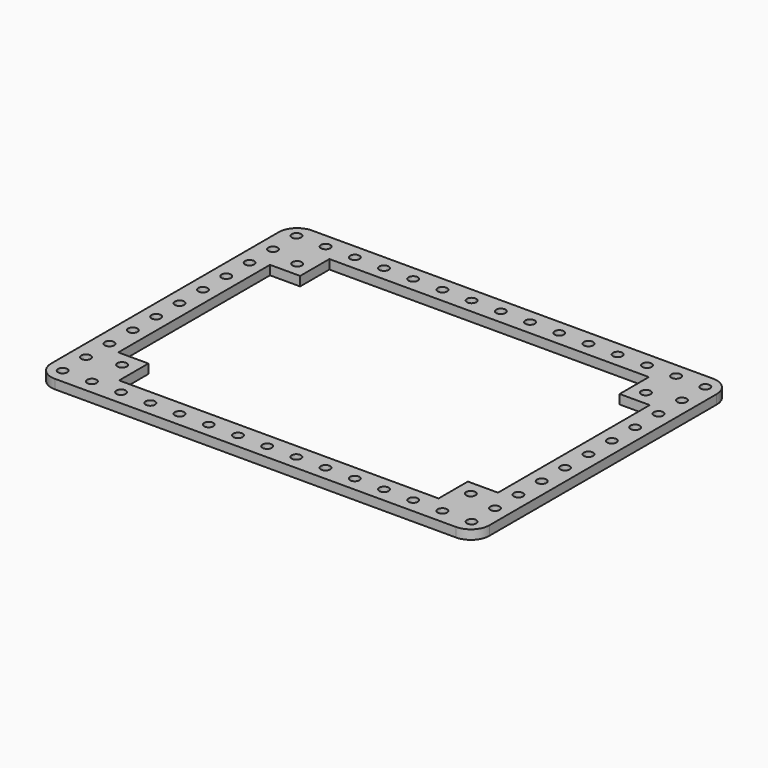
from build123d import *

# Parameters (mm, degrees)
F0_R     = 1.6
F1_DEPTH = 3.175


with BuildPart() as f1:
    # F0 (on Top) → F1 (new body)
    with BuildSketch(Plane.XY):
        with BuildLine():
            ThreePointArc((0, 6.35), (1.859872, 1.859872), (6.35, 0))
            Line((6.35, 0), (143.65, 0))
            ThreePointArc((143.65, 0), (148.140128, 1.859872), (150, 6.35))
            Line((150, 6.35), (150, 103.65))
            ThreePointArc((150, 103.65), (148.140128, 108.140128), (143.65, 110))
            Line((143.65, 110), (6.35, 110))
            ThreePointArc((6.35, 110), (1.859872, 108.140128), (0, 103.65))
            Line((0, 103.65), (0, 6.35))
        make_face()
        with Locations((5, 5)):
            Circle(F0_R, mode=Mode.SUBTRACT)
        with Locations((15, 5)):
            Circle(F0_R, mode=Mode.SUBTRACT)
        with Locations((25, 5)):
            Circle(F0_R, mode=Mode.SUBTRACT)
        with Locations((35, 5)):
            Circle(F0_R, mode=Mode.SUBTRACT)
        with Locations((5, 15)):
            Circle(F0_R, mode=Mode.SUBTRACT)
        with Locations((15.31, 17.535)):
            Circle(F0_R, mode=Mode.SUBTRACT)
        with Locations((5, 25)):
            Circle(F0_R, mode=Mode.SUBTRACT)
        with Locations((45, 5)):
            Circle(F0_R, mode=Mode.SUBTRACT)
        with Locations((55, 5)):
            Circle(F0_R, mode=Mode.SUBTRACT)
        with Locations((65, 5)):
            Circle(F0_R, mode=Mode.SUBTRACT)
        with Locations((5, 35)):
            Circle(F0_R, mode=Mode.SUBTRACT)
        with Locations((5, 45)):
            Circle(F0_R, mode=Mode.SUBTRACT)
        with Locations((75, 5)):
            Circle(F0_R, mode=Mode.SUBTRACT)
        with Locations((85, 5)):
            Circle(F0_R, mode=Mode.SUBTRACT)
        with Locations((95, 5)):
            Circle(F0_R, mode=Mode.SUBTRACT)
        with Locations((105, 5)):
            Circle(F0_R, mode=Mode.SUBTRACT)
        with Locations((115, 5)):
            Circle(F0_R, mode=Mode.SUBTRACT)
        with Locations((125, 5)):
            Circle(F0_R, mode=Mode.SUBTRACT)
        with Locations((135, 5)):
            Circle(F0_R, mode=Mode.SUBTRACT)
        with Locations((145, 5)):
            Circle(F0_R, mode=Mode.SUBTRACT)
        with Locations((134.69, 17.535)):
            Circle(F0_R, mode=Mode.SUBTRACT)
        with Locations((145, 15)):
            Circle(F0_R, mode=Mode.SUBTRACT)
        with Locations((145, 25)):
            Circle(F0_R, mode=Mode.SUBTRACT)
        with Locations((145, 35)):
            Circle(F0_R, mode=Mode.SUBTRACT)
        with Locations((145, 45)):
            Circle(F0_R, mode=Mode.SUBTRACT)
        with Locations((5, 55)):
            Circle(F0_R, mode=Mode.SUBTRACT)
        with Locations((5, 65)):
            Circle(F0_R, mode=Mode.SUBTRACT)
        with Locations((5, 75)):
            Circle(F0_R, mode=Mode.SUBTRACT)
        with Locations((5, 85)):
            Circle(F0_R, mode=Mode.SUBTRACT)
        with Locations((5, 95)):
            Circle(F0_R, mode=Mode.SUBTRACT)
        with Locations((15.31, 92.465)):
            Circle(F0_R, mode=Mode.SUBTRACT)
        with Locations((5, 105)):
            Circle(F0_R, mode=Mode.SUBTRACT)
        with Locations((15, 105)):
            Circle(F0_R, mode=Mode.SUBTRACT)
        with Locations((25, 105)):
            Circle(F0_R, mode=Mode.SUBTRACT)
        with Locations((35, 105)):
            Circle(F0_R, mode=Mode.SUBTRACT)
        with Locations((45, 105)):
            Circle(F0_R, mode=Mode.SUBTRACT)
        with Locations((55, 105)):
            Circle(F0_R, mode=Mode.SUBTRACT)
        with Locations((65, 105)):
            Circle(F0_R, mode=Mode.SUBTRACT)
        Polygon((20.31, 22.535), (10, 22.535), (10, 87.465), (20.31, 87.465), (20.31, 100), (129.69, 100), (129.69, 87.465), (140, 87.465), (140, 22.535), (129.69, 22.535), (129.69, 10), (20.31, 10), align=None, mode=Mode.SUBTRACT)
        with Locations((145, 55)):
            Circle(F0_R, mode=Mode.SUBTRACT)
        with Locations((145, 65)):
            Circle(F0_R, mode=Mode.SUBTRACT)
        with Locations((145, 75)):
            Circle(F0_R, mode=Mode.SUBTRACT)
        with Locations((75, 105)):
            Circle(F0_R, mode=Mode.SUBTRACT)
        with Locations((85, 105)):
            Circle(F0_R, mode=Mode.SUBTRACT)
        with Locations((95, 105)):
            Circle(F0_R, mode=Mode.SUBTRACT)
        with Locations((105, 105)):
            Circle(F0_R, mode=Mode.SUBTRACT)
        with Locations((145, 85)):
            Circle(F0_R, mode=Mode.SUBTRACT)
        with Locations((134.69, 92.465)):
            Circle(F0_R, mode=Mode.SUBTRACT)
        with Locations((145, 95)):
            Circle(F0_R, mode=Mode.SUBTRACT)
        with Locations((115, 105)):
            Circle(F0_R, mode=Mode.SUBTRACT)
        with Locations((125, 105)):
            Circle(F0_R, mode=Mode.SUBTRACT)
        with Locations((135, 105)):
            Circle(F0_R, mode=Mode.SUBTRACT)
        with Locations((145, 105)):
            Circle(F0_R, mode=Mode.SUBTRACT)
    extrude(amount=F1_DEPTH)


solid = f1.part
